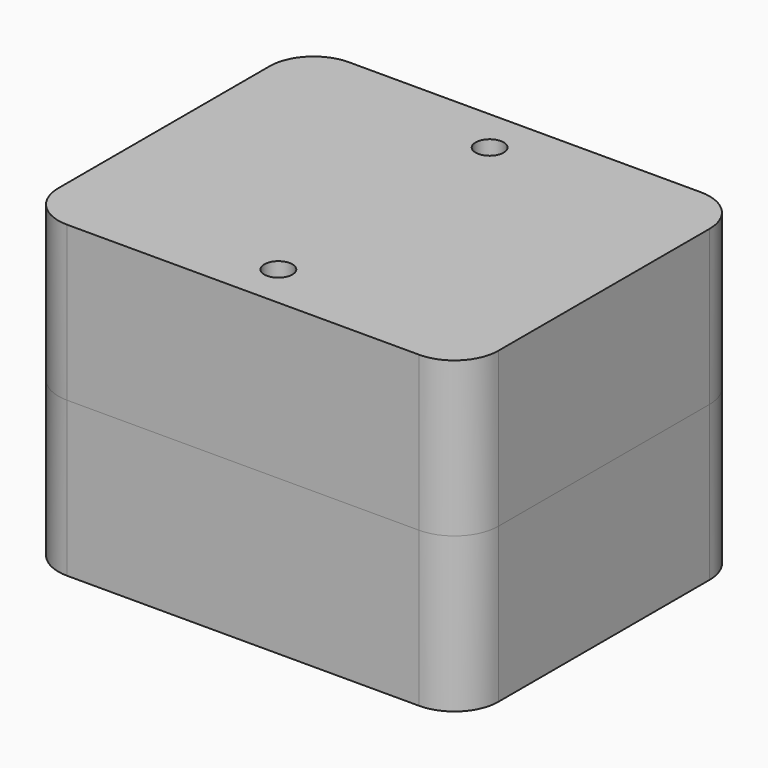
from build123d import *

# Parameters (mm, degrees)
F1_DEPTH = 22.3
F2_R     = 2.0193
F3_DEPTH = 8
F4_DEPTH = 22.3
F5_R     = 1.905
F6_DEPTH = 22.3
F7_R     = 2.0193
F8_DEPTH = 8


with BuildPart() as f1:
    # F0 (on Top) → F1 (new body)
    with BuildSketch(Plane.XY):
        with BuildLine():
            ThreePointArc((31.75, 19.05), (29.8901280605, 23.5401280605), (25.4, 25.4))
            Line((25.4, 25.4), (-25.4, 25.4))
            ThreePointArc((-25.4, 25.4), (-29.8901280605, 23.5401280605), (-31.75, 19.05))
            Line((-31.75, 19.05), (-31.75, -19.05))
            ThreePointArc((-31.75, -19.05), (-29.8901280605, -23.5401280605), (-25.4, -25.4))
            Line((-25.4, -25.4), (25.4, -25.4))
            ThreePointArc((25.4, -25.4), (29.8901280605, -23.5401280605), (31.75, -19.05))
            Line((31.75, -19.05), (31.75, 19.05))
        make_face()
    extrude(amount=F1_DEPTH)

    # F2 (on face) → F3 (cut)
    with BuildSketch(Plane.XY.offset(22.3)):
        with Locations((0, 19.05)):
            Circle(F2_R)
        with Locations((0, -19.05)):
            Circle(F2_R)
    extrude(amount=-F3_DEPTH, mode=Mode.SUBTRACT)


with BuildPart() as f4:
    # F4 (new): a face of the model
    f4_faces = [f1.part.faces().sort_by_distance(p)[0] for p in [
        (0, 0, 0),
    ]]
    extrude(f4_faces, amount=F4_DEPTH)

    # F5 (on face) → F6 (cut, through all)
    with BuildSketch(Plane(origin=(0, 0, -22.3), x_dir=(1, 0, 0), z_dir=(0, 0, -1))):
        with Locations((0, 15.4)):
            Circle(F5_R)
    extrude(amount=-F6_DEPTH, mode=Mode.SUBTRACT)

    # F7 (on face) → F8 (cut)
    with BuildSketch(Plane(origin=(0, 0, -22.3), x_dir=(1, 0, 0), z_dir=(0, 0, -1))):
        with Locations((-25.413, 0)):
            Circle(F7_R)
        with Locations((25.413, 0)):
            Circle(F7_R)
    extrude(amount=-F8_DEPTH, mode=Mode.SUBTRACT)


solid = Compound([f1.part, f4.part])
